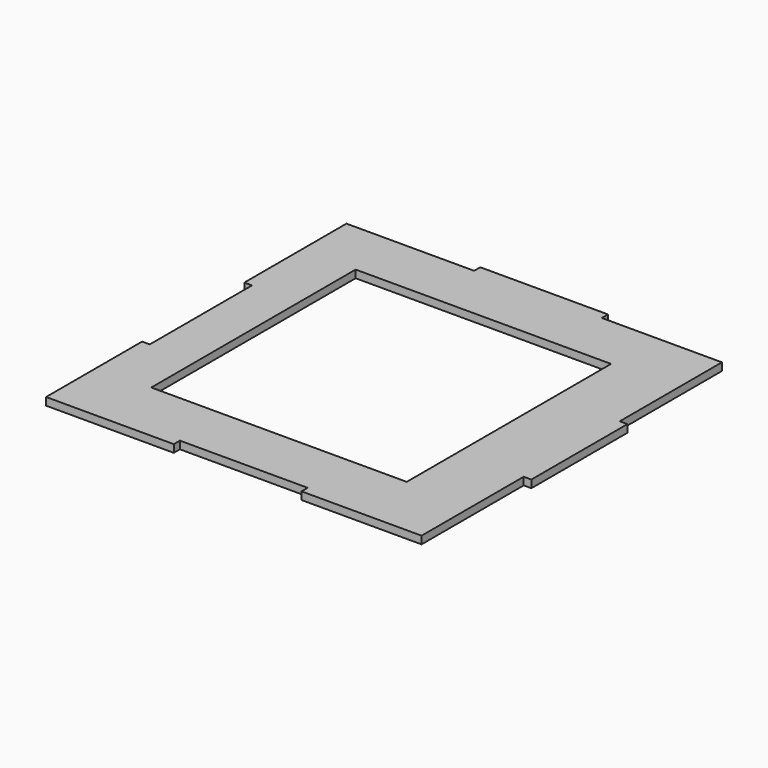
from build123d import *

# Parameters (mm, degrees)
F0_W     = 2540
F0_H     = 2540
F1_DEPTH = 76.2


with BuildPart() as f1:
    # F0 (on Top) → F1 (new body)
    with BuildSketch(Plane.XY):
        Polygon((731.630458, 1828.8), (731.630458, 1905), (-538.369542, 1905), (-538.369542, 1828.8), (-1808.369542, 1828.8), (-1808.369542, 558.8), (-1732.169542, 558.8), (-1732.169542, -711.2), (-1808.369542, -711.2), (-1808.369542, -1905), (-538.369542, -1905), (-538.369542, -1828.8), (731.630458, -1828.8), (731.630458, -1905), (1925.430458, -1905), (1925.430458, -635), (2001.630458, -635), (2001.630458, 558.8), (1925.430458, 558.8), (1925.430458, 1828.8), align=None)
        Rectangle(F0_W, F0_H, mode=Mode.SUBTRACT)
    extrude(amount=F1_DEPTH)


solid = f1.part
